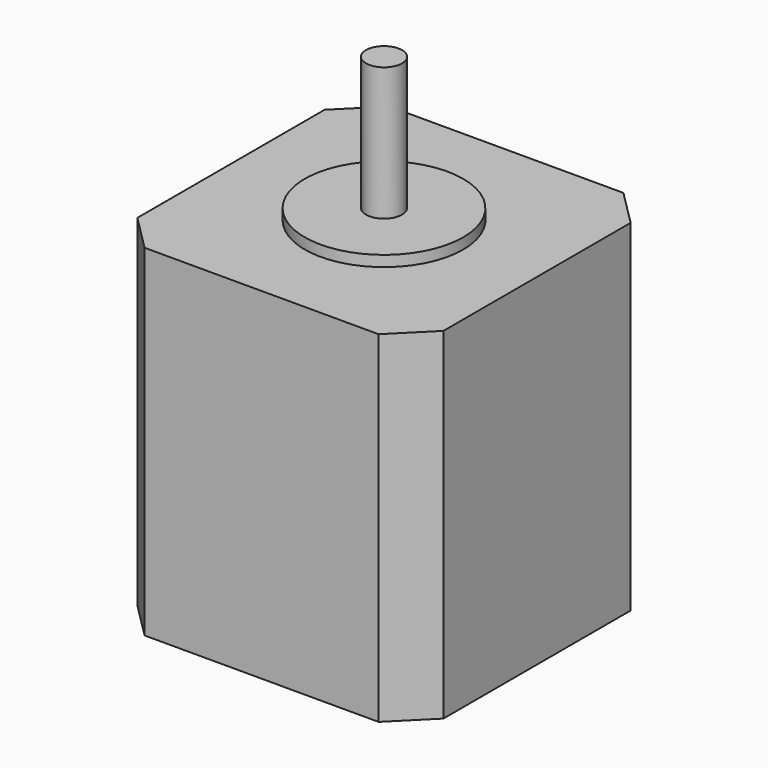
from build123d import *

# Parameters (mm, degrees)
SKETCH074_W        = 42.5
SKETCH074_H        = 42.5
PAD037_DEPTH       = 47.4
CHAMFER022_SIZE    = 5
CHAMFER023_SIZE    = 5
CHAMFER020_SIZE    = 5
CHAMFER021_SIZE    = 5
SKETCH076_R        = 11
PAD034_DEPTH       = 1.5
SKETCH075_R        = 2.5
PAD035_DEPTH       = 18.5
BODY018_ROLL_ANGLE = -90


with BuildPart() as part:
    # Sketch074 → Pad037 (new body)
    with BuildSketch(Plane.XZ):
        Rectangle(SKETCH074_W, SKETCH074_H)
    extrude(amount=-PAD037_DEPTH)

    # Chamfer022
    chamfer022_edges = [part.edges().sort_by_distance(p)[0] for p in [
        (21.25, 23.7, 21.25),
    ]]
    chamfer(chamfer022_edges, length=CHAMFER022_SIZE)

    # Chamfer023
    chamfer023_edges = [part.edges().sort_by_distance(p)[0] for p in [
        (-21.25, 23.7, 21.25),
    ]]
    chamfer(chamfer023_edges, length=CHAMFER023_SIZE)

    # Chamfer020
    chamfer020_edges = [part.edges().sort_by_distance(p)[0] for p in [
        (21.25, 23.7, -21.25),
    ]]
    chamfer(chamfer020_edges, length=CHAMFER020_SIZE)

    # Chamfer021
    chamfer021_edges = [part.edges().sort_by_distance(p)[0] for p in [
        (-21.25, 23.7, -21.25),
    ]]
    chamfer(chamfer021_edges, length=CHAMFER021_SIZE)

    # Sketch076 (on Face1 of Chamfer021) → Pad034 (join)
    with BuildSketch(Plane.XZ):
        Circle(SKETCH076_R)
    extrude(amount=PAD034_DEPTH)

    # Sketch075 (on Face12 of Pad034) → Pad035 (join)
    with BuildSketch(Plane.XZ.offset(1.5)):
        Circle(SKETCH075_R)
    extrude(amount=PAD035_DEPTH)


with BuildPart() as part_1:
    # Body018 roll: moved
    add(part.part.rotate(Axis((0, 0, 0), (1, 0, 0)), BODY018_ROLL_ANGLE))


with BuildPart() as part_2:
    # Body018 placement: moved
    add(part_1.part)


solid = part_2.part
